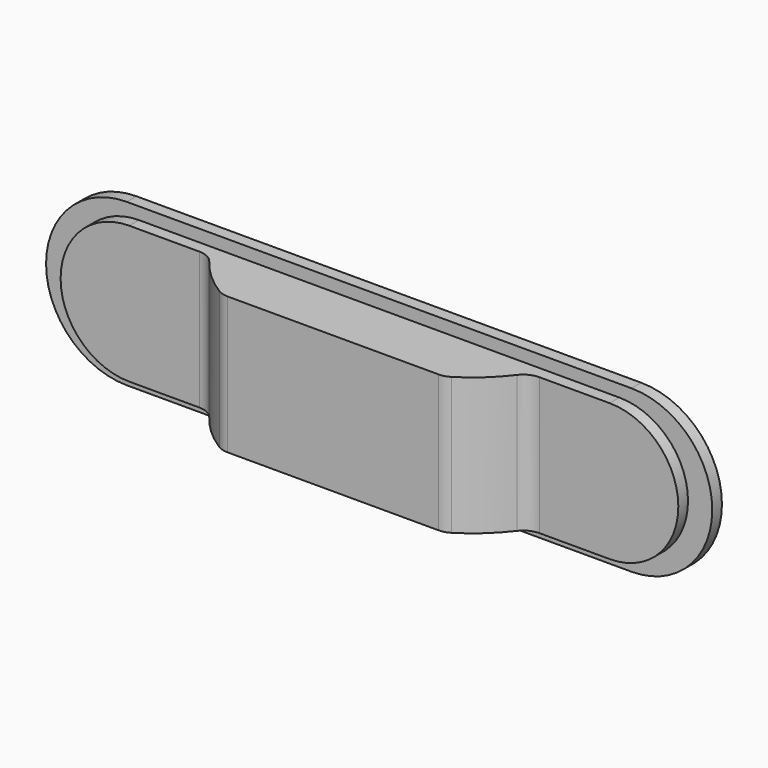
from build123d import *

# Parameters (mm, degrees)
F0_W     = 125
F0_H     = 40
F1_DEPTH = 3
F2_W     = 119
F2_H     = 34
F3_DEPTH = 3
F4_W     = 55
F4_H     = 14.9112120271
F5_DEPTH = 34
F6_R     = 5


with BuildPart() as f1:
    # F0 (on Front) → F1 (new body)
    with BuildSketch(Plane.XZ):
        Rectangle(F0_W, F0_H)
        with BuildLine():
            ThreePointArc((62.5, -20), (82.5, 0), (62.5, 20))
            Line((62.5, 20), (62.5, -20))
        make_face()
        with BuildLine():
            Line((-62.5, -20), (-62.5, 20))
            ThreePointArc((-62.5, 20), (-82.5, 0), (-62.5, -20))
        make_face()
    extrude(amount=F1_DEPTH)

    # F2 (on face) → F3 (join)
    with BuildSketch(Plane.XZ.offset(3)):
        Rectangle(F2_W, F2_H)
        with BuildLine():
            ThreePointArc((59.5, -17), (76.5, 0), (59.5, 17))
            Line((59.5, 17), (59.5, -17))
        make_face()
        with BuildLine():
            Line((-59.5, -17), (-59.5, 17))
            ThreePointArc((-59.5, 17), (-76.5, 0), (-59.5, -17))
        make_face()
    extrude(amount=F3_DEPTH)

    # F4 (on face) → F5 (join)
    with BuildSketch(Plane.XY.offset(17)):
        with Locations((0, -9.8109263927)):
            Rectangle(F4_W, F4_H)
        with BuildLine():
            ThreePointArc((-39.5, -6), (-34.1717325339, -12.3487294988), (-27.5, -17.2665324062))
            Line((-27.5, -17.2665324062), (-27.5, -2.3553203791))
            Line((-27.5, -2.3553203791), (-39.5, -6))
        make_face()
        with BuildLine():
            Line((27.5, -2.3553203791), (27.5, -17.2665324062))
            ThreePointArc((27.5, -17.2665324062), (34.1717325339, -12.3487294988), (39.5, -6))
            Line((39.5, -6), (27.5, -2.3553203791))
        make_face()
    extrude(amount=-F5_DEPTH)

    # F6
    f6_edges = [f1.edges().sort_by_distance(p)[0] for p in [
        (-27.5, -17.266532, 0),
        (27.5, -17.266532, 0),
        (39.5, -6, 0),
        (-39.5, -6, 0),
    ]]
    fillet(f6_edges, radius=F6_R)


solid = f1.part
